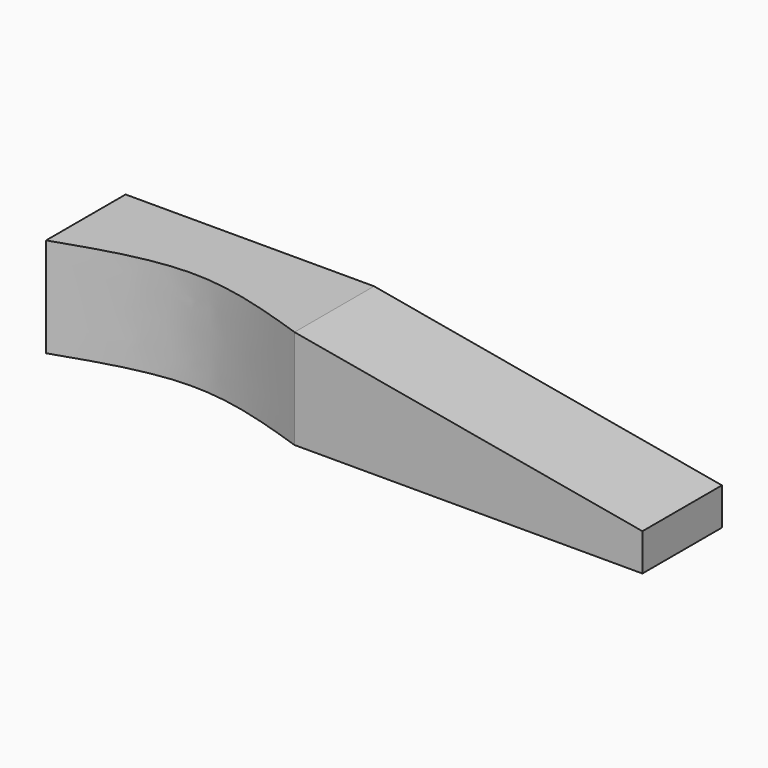
from build123d import *

# Parameters (mm, degrees)
F1_DEPTH = 50.8
F3_DEPTH = 50.8


with BuildPart() as f1:
    # F0 (on Front) → F1 (new body)
    with BuildSketch(Plane.XZ):
        Polygon((0, 50.8), (0, 0), (304.8, 0), (304.8, 19.05), (127, 50.8), align=None)
    extrude(amount=-F1_DEPTH)

    # F2 (on face) → F3 (cut)
    with BuildSketch(Plane.XY.offset(50.8)):
        with BuildLine():
            add(Edge.make_bspline(
                [(0, 0), (21.1666666667, 7.1091600694), (63.5, 21.3274802081), (105.8333333333, 7.1091600694), (127, 0)],
                knots=[0, 0, 0, 0, 0.5, 1, 1, 1, 1], degree=3))
            Line((0, 0), (127, 0))
        make_face()
    extrude(amount=-F3_DEPTH, mode=Mode.SUBTRACT)


solid = f1.part
